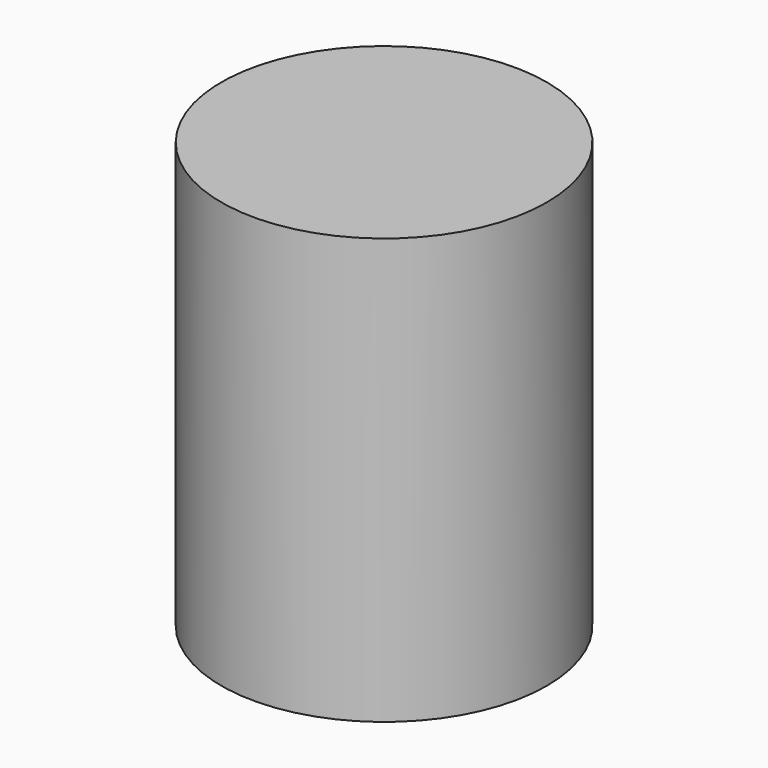
from build123d import *

# Parameters (mm, degrees)
F0_R     = 6.5
F0_R_2   = 4.5
F1_DEPTH = 17
F2_START = 5
F0_R_3   = 3
F2_DEPTH = 2
F3_START = 15
F3_DEPTH = 2


with BuildPart() as f1:
    # F0 (on Top) → F1 (new body)
    with BuildSketch(Plane.XY):
        Circle(F0_R)
        Circle(F0_R_2, mode=Mode.SUBTRACT)
    extrude(amount=F1_DEPTH)

    # F0 (on Top) → F2 (join)
    with BuildSketch(Plane.XY.offset(F2_START)):
        Circle(F0_R_2)
        Circle(F0_R_3, mode=Mode.SUBTRACT)
    extrude(amount=F2_DEPTH)

    # F0 (on Top) → F3 (join)
    with BuildSketch(Plane.XY.offset(F3_START)):
        Circle(F0_R_2)
        Circle(F0_R_3, mode=Mode.SUBTRACT)
        Circle(F0_R_3)
    extrude(amount=F3_DEPTH)


solid = f1.part
